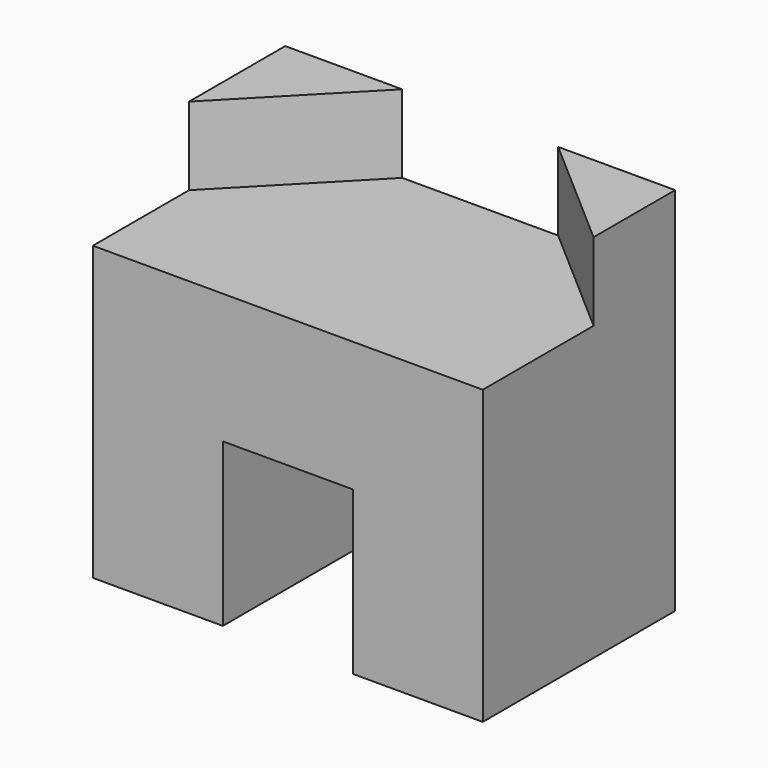
from build123d import *

# Parameters (mm, degrees)
F0_W     = 60
F0_H     = 57
F1_DEPTH = 37
F3_DEPTH = 12
F4_W     = 20
F4_H     = 50
F5_DEPTH = 37.001


with BuildPart() as f1:
    # F0 (on Front) → F1 (new body)
    with BuildSketch(Plane.XZ):
        Rectangle(F0_W, F0_H)
    extrude(amount=F1_DEPTH)

    # F2 (on face) → F3 (cut)
    with BuildSketch(Plane.XY.offset(28.5)):
        Polygon((12, 0), (-12, 0), (-30, -18.5), (-30, -37), (30, -37), (30, -15.690912), align=None)
    extrude(amount=-F3_DEPTH, mode=Mode.SUBTRACT)

    # F4 (on face) → F5 (cut, through all)
    with BuildSketch(Plane.XZ.offset(37)):
        with Locations((0, -28.5)):
            Rectangle(F4_W, F4_H)
    extrude(amount=-F5_DEPTH, mode=Mode.SUBTRACT)


solid = f1.part
